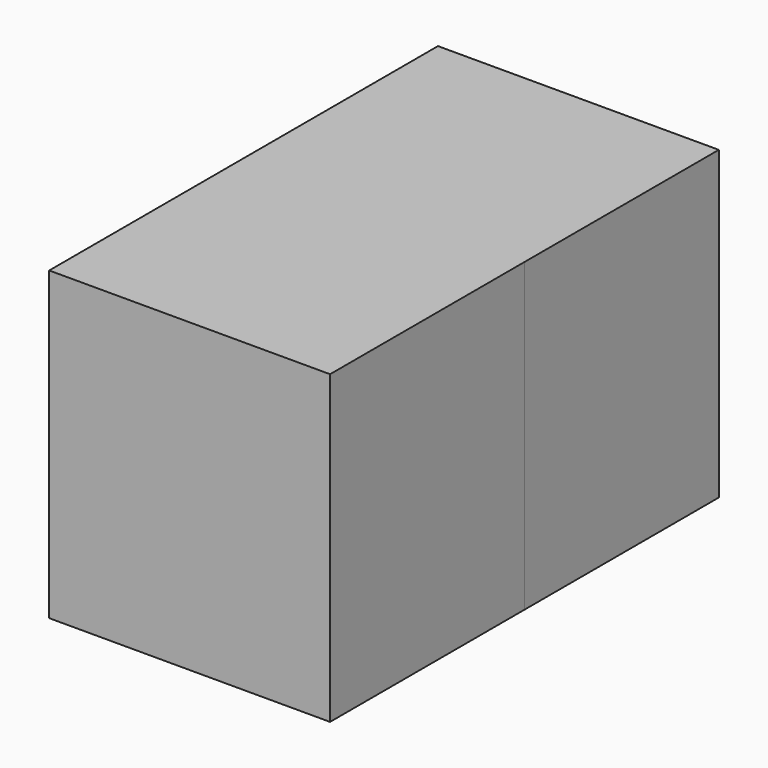
from build123d import *

# Parameters (mm, degrees)
F0_W     = 29.361941
F0_H     = 32.000218
F1_DEPTH = 25.4
F3_DEPTH = 25.4


with BuildPart() as f1:
    # F0 (on Front) → F1 (new body)
    with BuildSketch(Plane.XZ):
        with Locations((-29.391934, 16.000109)):
            Rectangle(F0_W, F0_H)
    extrude(amount=F1_DEPTH)

    # F2 (on face) → F3 (join)
    with BuildSketch(Plane.XZ.offset(25.4)):
        Polygon((-14.710963, 0), (-14.710963, 32.000218), (-44.072904, 32.000218), (-44.072904, 0), (-29.391933, 0), align=None)
    extrude(amount=F3_DEPTH)


solid = f1.part
